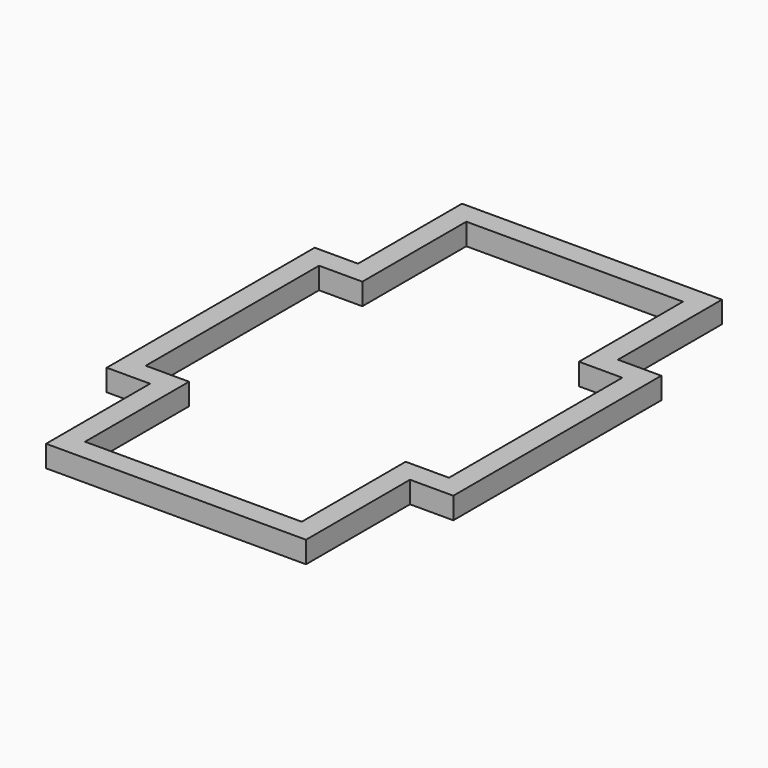
from build123d import *

# Parameters (mm, degrees)
F1_DEPTH = 6.35
F2_T     = -6.35


with BuildPart() as f1:
    # F0 (on Top) → F1 (new body)
    with BuildSketch(Plane.XY):
        Polygon((38.1, 38.1), (38.1, 76.2), (-38.1, 76.2), (-38.1, 38.1), (-50.8, 38.1), (-50.8, -38.1), (-38.1, -38.1), (-38.1, -76.2), (38.1, -76.2), (38.1, -38.1), (50.8, -38.1), (50.8, 38.1), align=None)
    extrude(amount=F1_DEPTH)

    # F2
    f2_openings = [f1.faces().sort_by_distance(p)[0] for p in [
        (0, 0, 6.35),
        (0, 0, 0),
    ]]
    offset(amount=F2_T, openings=f2_openings, kind=Kind.INTERSECTION)


solid = f1.part
